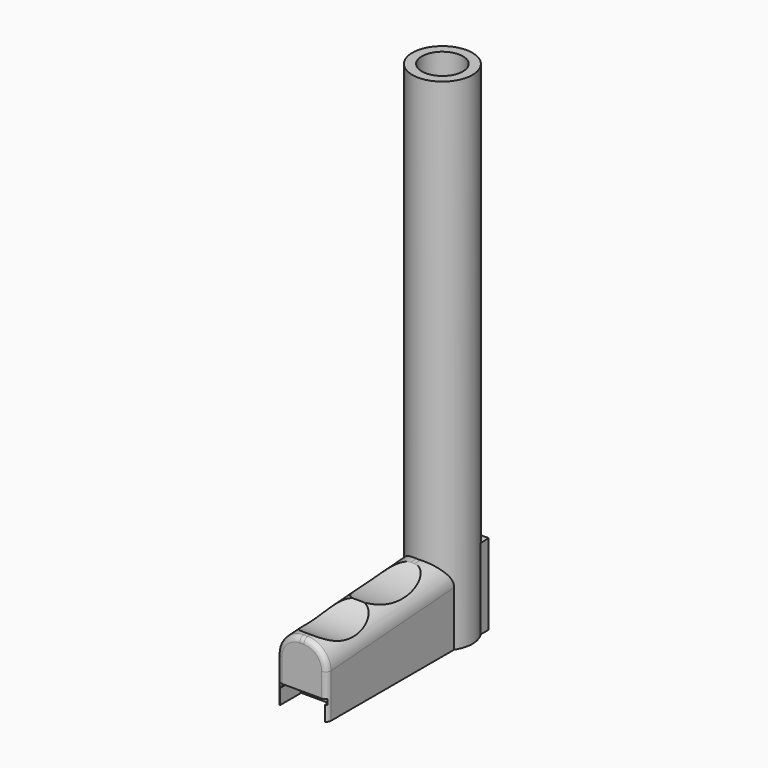
from build123d import *

# Parameters (mm, degrees)
F0_R           = 6
F1_DEPTH       = 100
F3_DEPTH       = 5
F3_DEPTH_BACK  = 5
F4_R           = 4.1
F5_DEPTH       = 125.4
F7_DEPTH       = 41.0720824132
F9_DEPTH       = 29.9
F10_W          = 1.9428639189
F10_H          = 4.3132465668
F11_DEPTH      = 9.9
F12_R          = 4.5870057685
F13_R          = 1.0354074261
F15_DEPTH      = 25
F15_DEPTH_BACK = 25


with BuildPart() as f1:
    # F0 (on Top) → F1 (new body)
    with BuildSketch(Plane.XY):
        Circle(F0_R)
    extrude(amount=F1_DEPTH)

    # F2 (on Right) → F3 (join, two sides)
    with BuildSketch(Plane.YZ) as f3_sk:
        Polygon((-35.0710824132, 13.3073087782), (-35.0710824132, 0), (5.2594887093, 0), (5.2594887093, 16.1479860544), align=None)
    extrude(amount=F3_DEPTH)
    extrude(f3_sk.sketch, amount=-F3_DEPTH_BACK)

    # F4 (on face) → F5 (cut)
    with BuildSketch(Plane.XY.offset(100)):
        Circle(F4_R)
    extrude(amount=-F5_DEPTH, mode=Mode.SUBTRACT)

    # F6 (on face) → F7 (cut, through all)
    with BuildSketch(Plane.XZ.offset(35.0710824132)):
        Polygon((-4.5, 3), (-4.5, 0), (4.5, 0), (4.5, 3), (4.773848962, 3), (4.773848962, 4), (-4.741775997, 4), (-4.741775997, 3), align=None)
    extrude(amount=-F7_DEPTH, mode=Mode.SUBTRACT)

    # F10 (on face) → F11 (join)
    with BuildSketch(Plane(origin=(-5, 0, 0), x_dir=(0, -1, 0), z_dir=(-1, 0, 0))):
        with Locations((-4.2880567498, 2.1566232834)):
            Rectangle(F10_W, F10_H)
    extrude(amount=-F11_DEPTH)

    # F12
    f12_edges = [f1.edges().sort_by_distance(p)[0] for p in [
        (5, -19.193854, 14.425619),
        (-5, -19.193854, 14.425619),
    ]]
    fillet(f12_edges, radius=F12_R)

    # F13
    f13_edges = [f1.edges().sort_by_distance(p)[0] for p in [
        (3.658503, -35.071082, 11.958465),
        (-3.658503, -35.071082, 11.958465),
        (0, -35.071082, 13.307309),
    ]]
    fillet(f13_edges, radius=F13_R)

    # F14 (on Right) → F15 (cut, two sides)
    with BuildSketch(Plane.YZ) as f15_sk:
        with BuildLine():
            Line((-6.6120252013, 15.7186705619), (-33.9181585425, 13.7271391695))
            ThreePointArc((-33.9181585425, 13.7271391695), (-27.3596972557, 11.856128674), (-20.9703044678, 14.2414493078))
            ThreePointArc((-20.9703044678, 14.2414493078), (-13.6186487576, 13.3032400244), (-6.6120252013, 15.7186705619))
        make_face()
    extrude(amount=-F15_DEPTH, mode=Mode.SUBTRACT)
    extrude(f15_sk.sketch, amount=F15_DEPTH_BACK, mode=Mode.SUBTRACT)


with BuildPart() as f9:
    # F8 (on Front) → F9 (new body)
    with BuildSketch(Plane.XZ):
        Polygon((-4.45, 3.1), (-4.45, 0.2), (4.45, 0.2), (4.45, 3.1), (4.6502057618, 3.1), (4.6502057618, 4), (-4.7497942382, 4), (-4.7497942382, 3.1), align=None)
    extrude(amount=F9_DEPTH)


solid = Compound([f1.part, f9.part])
